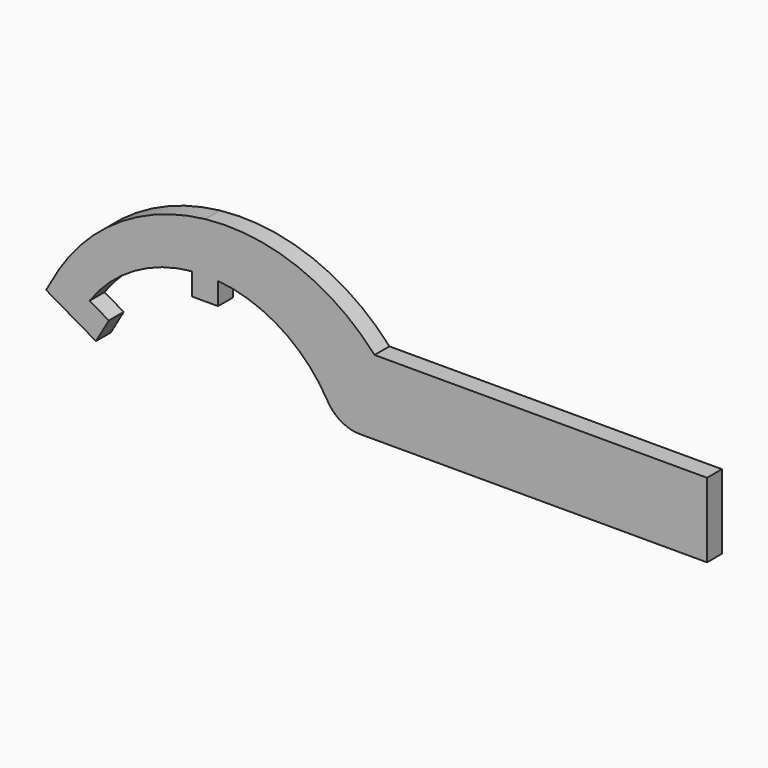
from build123d import *

# Parameters (mm, degrees)
F1_DEPTH = 4.7625


with BuildPart() as f1:
    # F0 (on Front) → F1 (new body)
    with BuildSketch(Plane.XZ):
        with BuildLine():
            ThreePointArc((43.350956, 32.385296), (43.963334, 31.69148), (44.562959, 30.986613))
            ThreePointArc((44.562959, 30.986613), (47.902764, 27.518475), (49.119681, 22.86))
            ThreePointArc((49.119681, 22.86), (46.35636, 16.151399), (39.669743, 13.335296))
            Line((39.669743, 13.335296), (128.41962, 13.335296))
            Line((128.41962, 13.335296), (128.41962, 32.385296))
            Line((128.41962, 32.385296), (43.350956, 32.385296))
        make_face()
        with BuildLine():
            ThreePointArc((44.562959, 30.986613), (32.94465, 29.679289), (31.345789, 18.0975))
            ThreePointArc((31.345789, 18.0975), (34.799716, 14.629938), (39.51962, 13.335296))
            Line((39.51962, 13.335296), (39.669743, 13.335296))
            ThreePointArc((39.669743, 13.335296), (46.35636, 16.151399), (49.119681, 22.86))
            ThreePointArc((49.119681, 22.86), (47.902764, 27.518475), (44.562959, 30.986613))
        make_face()
        with BuildLine():
            ThreePointArc((3.302, 36.044068), (19.509924, 30.486733), (31.345789, 18.0975))
            ThreePointArc((31.345789, 18.0975), (32.94465, 29.679289), (44.562959, 30.986613))
            ThreePointArc((44.562959, 30.986613), (43.963334, 31.69148), (43.350956, 32.385296))
            ThreePointArc((43.350956, 32.385296), (23.672268, 45.883291), (0, 48.895))
            Line((0, 48.895), (0, 36.195))
            ThreePointArc((0, 36.195), (1.652724, 36.157247), (3.302, 36.044068))
        make_face()
        with BuildLine():
            ThreePointArc((-3.302, 36.044068), (-1.652724, 36.157247), (0, 36.195))
            Line((0, 36.195), (0, 48.895))
            ThreePointArc((0, 48.895), (-21.386272, 41.429282), (-37.393755, 25.402116))
            Line((-37.393755, 25.402116), (-29.564078, 20.88165))
            ThreePointArc((-29.564078, 20.88165), (-18.0975, 31.345789), (-3.302, 36.044068))
        make_face()
        Polygon((-32.866078, 15.162418), (-37.393755, 25.402116), (-40.695755, 19.682884), align=None)
        with BuildLine():
            ThreePointArc((-32.866078, 15.162418), (-32.139457, 16.647323), (-31.345789, 18.0975))
            ThreePointArc((-31.345789, 18.0975), (-30.486733, 19.509924), (-29.564078, 20.88165))
            Line((-29.564078, 20.88165), (-37.393755, 25.402116))
            Line((-37.393755, 25.402116), (-32.866078, 15.162418))
        make_face()
        with BuildLine():
            Line((-31.345789, 18.0975), (-26.286469, 15.1765))
            Line((-26.286469, 15.1765), (-24.635469, 18.036116))
            Line((-24.635469, 18.036116), (-29.564078, 20.88165))
            ThreePointArc((-29.564078, 20.88165), (-30.486733, 19.509924), (-31.345789, 18.0975))
        make_face()
        with BuildLine():
            Line((-27.937469, 12.316884), (-26.286469, 15.1765))
            Line((-26.286469, 15.1765), (-31.345789, 18.0975))
            ThreePointArc((-31.345789, 18.0975), (-32.139457, 16.647323), (-32.866078, 15.162418))
            Line((-32.866078, 15.162418), (-27.937469, 12.316884))
        make_face()
        with BuildLine():
            Line((0, 30.353), (0, 36.195))
            ThreePointArc((0, 36.195), (-1.652724, 36.157247), (-3.302, 36.044068))
            Line((-3.302, 36.044068), (-3.302, 30.353))
            Line((-3.302, 30.353), (0, 30.353))
        make_face()
        with BuildLine():
            Line((3.302, 30.353), (3.302, 36.044068))
            ThreePointArc((3.302, 36.044068), (1.652724, 36.157247), (0, 36.195))
            Line((0, 36.195), (0, 30.353))
            Line((0, 30.353), (3.302, 30.353))
        make_face()
    extrude(amount=F1_DEPTH)


solid = f1.part
